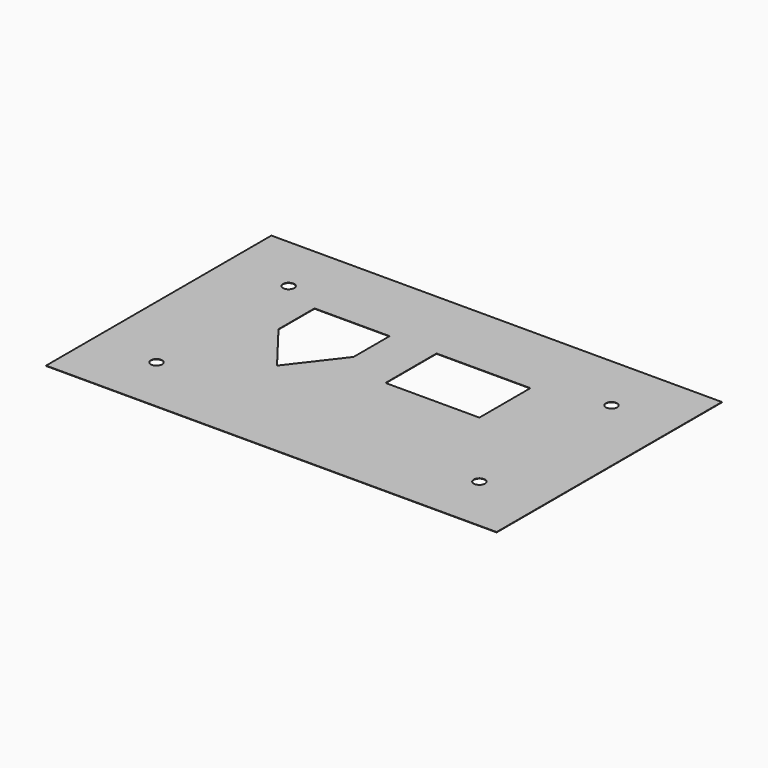
from build123d import *

# Parameters (mm, degrees)
F0_W     = 120
F0_H     = 75
F0_R     = 1.5
F0_W_2   = 25
F0_H_2   = 17
F1_DEPTH = 0.1


with BuildPart() as f1:
    # F0 (on Top) → F1 (new body)
    with BuildSketch(Plane.XY):
        Rectangle(F0_W, F0_H)
        with Locations((-43, -22)):
            Circle(F0_R, mode=Mode.SUBTRACT)
        with Locations((43, -22)):
            Circle(F0_R, mode=Mode.SUBTRACT)
        Polygon((-32.5, 17.5), (-12.5, 17.5), (-12.5, 5.5), (-22.5, -7.5), (-32.5, 5.5), align=None, mode=Mode.SUBTRACT)
        with Locations((-43, 22)):
            Circle(F0_R, mode=Mode.SUBTRACT)
        with Locations((12.5, 9)):
            Rectangle(F0_W_2, F0_H_2, mode=Mode.SUBTRACT)
        with Locations((43, 22)):
            Circle(F0_R, mode=Mode.SUBTRACT)
    extrude(amount=F1_DEPTH)


solid = f1.part
